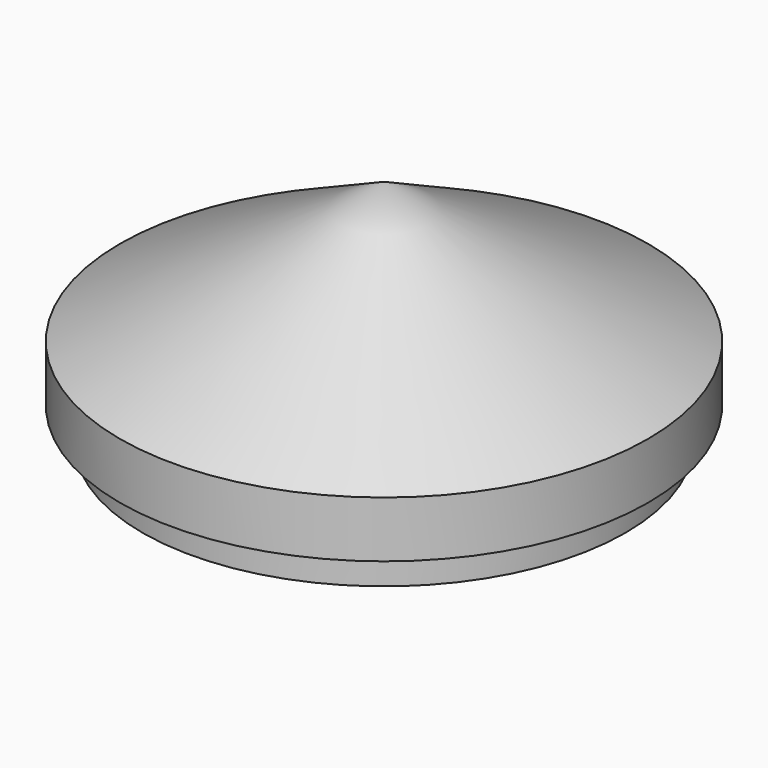
from build123d import *

# Parameters (mm, degrees)
F0_R     = 47
F1_DEPTH = 16
F2_R     = 39
F3_DEPTH = 16
F4_R     = 47
F4_R_2   = 43
F5_DEPTH = 6


with BuildPart() as f1:
    # F0 (on Top) → F1 (new body)
    with BuildSketch(Plane.XY):
        Circle(F0_R)
    extrude(amount=F1_DEPTH)

    # F2 (on face) → F3 (cut)
    with BuildSketch(Plane(origin=(0, 0, 0), x_dir=(1, 0, 0), z_dir=(0, 0, -1))):
        Circle(F2_R)
    extrude(amount=-F3_DEPTH, mode=Mode.SUBTRACT)

    # F4 (on face) → F5 (cut)
    with BuildSketch(Plane(origin=(0, 0, 0), x_dir=(1, 0, 0), z_dir=(0, 0, -1))):
        Circle(F4_R)
        Circle(F4_R_2, mode=Mode.SUBTRACT)
    extrude(amount=-F5_DEPTH, mode=Mode.SUBTRACT)

    # F7 (on Front) → F8 (revolve)
    with BuildSketch(Plane.XZ):
        Polygon((-39, 16), (0, 36.744681), (0, 41), (-47, 16), align=None)
    revolve(axis=Axis((0, 0, 12.147951), (0, 0, 1)))


solid = f1.part
